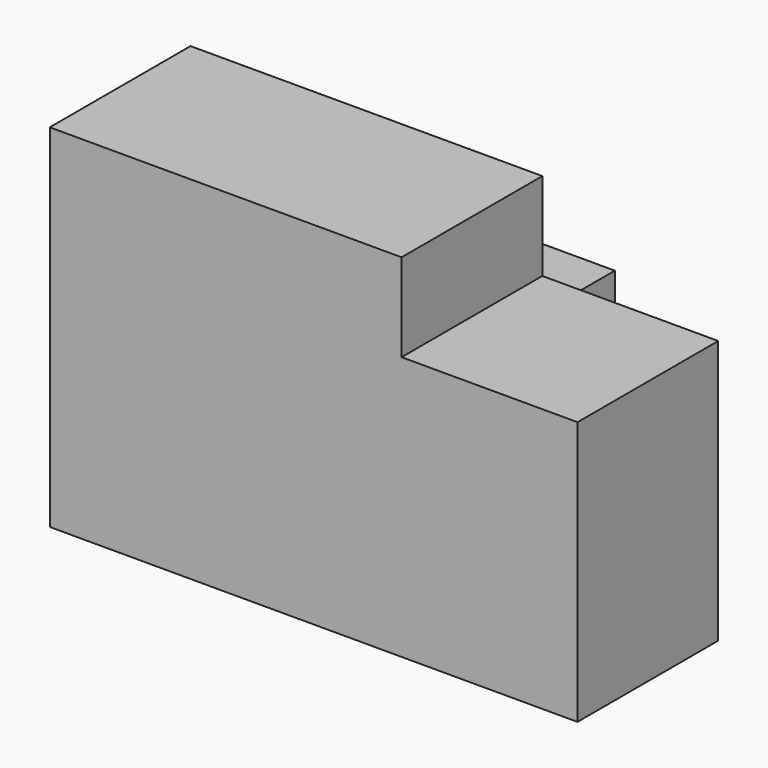
from build123d import *

# Parameters (mm, degrees)
F1_DEPTH = 25.4
F2_W     = 38.1
F2_H     = 25.4
F3_DEPTH = 25.4


with BuildPart() as f1:
    # F0 (on Front) → F1 (new body)
    with BuildSketch(Plane.XZ):
        Polygon((-38.809308, -4.526063), (-38.809308, -55.326063), (37.390692, -55.326063), (37.390692, -17.226063), (11.990692, -17.226063), (11.990692, -4.526063), align=None)
    extrude(amount=F1_DEPTH)

    # F2 (on Front) + F1_face (on face) → F3 (join)
    with BuildSketch(Plane.XZ):
        with Locations((-16.909673, -42.778752)):
            Rectangle(F2_W, F2_H)
    with BuildSketch(Plane(origin=(-3.018399, -25.4, -31.657881), x_dir=(1, 0, 0), z_dir=(0, -1, 0))):
        Polygon((15.009091, 27.131818), (-35.790909, 27.131818), (-35.790909, -23.668182), (40.409091, -23.668182), (40.409091, 14.431818), (15.009091, 14.431818), align=None)
    extrude(amount=-F3_DEPTH)


solid = f1.part
